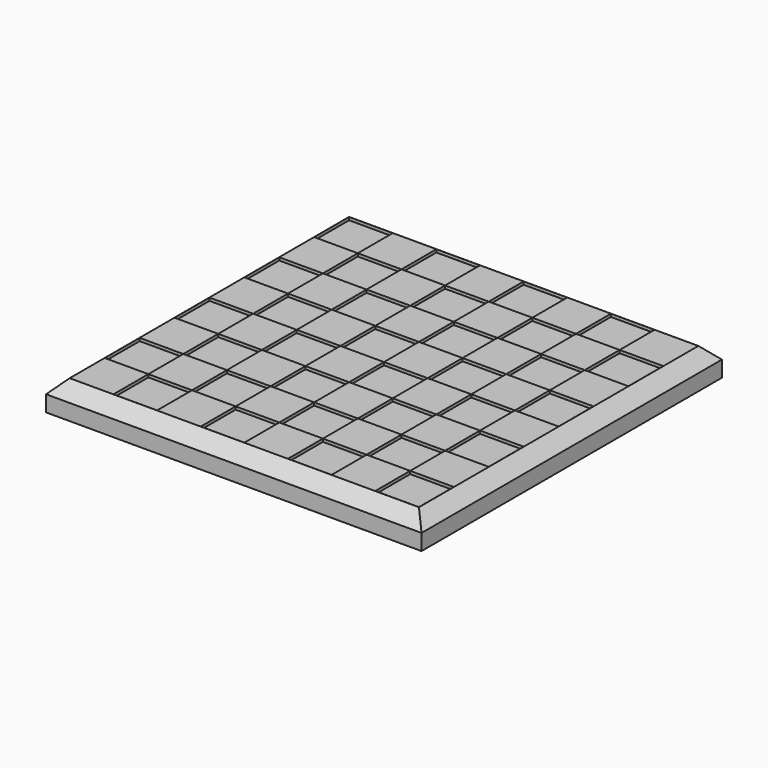
from build123d import *

# Parameters (mm, degrees)
F0_W          = 38.1
F0_H          = 38.1
F1_DEPTH      = 12.7
F2_DEPTH      = 15.24
F3_W          = 327.8466301799
F3_H          = 327.8466301799
F3_W_2        = 304.8
F3_H_2        = 304.8
F4_DEPTH      = 15.24
F4_DEPTH_BACK = 10.16
F5_SIZE       = 11.43
F3_W_3        = 38.1
F3_H_3        = 38.1
F6_DEPTH      = 1.27
F8_DEPTH      = 8.89


with BuildPart() as f1:
    # F0 (on Top) → F1 (new body)
    with BuildSketch(Plane.XY):
        with Locations((-184.1500037253, 82.8282978117)):
            Rectangle(F0_W, F0_H)
    extrude(amount=F1_DEPTH)


with BuildPart() as f1b:
    # F0 (on Top) → F1, piece 2 (new body)
    with BuildSketch(Plane.XY):
        with Locations((-146.0500037253, 44.7282978117)):
            Rectangle(F0_W, F0_H)
    extrude(amount=F1_DEPTH)


with BuildPart() as f1c:
    # F0 (on Top) → F1, piece 3 (new body)
    with BuildSketch(Plane.XY):
        with Locations((-107.9500037253, 82.8282978117)):
            Rectangle(F0_W, F0_H)
    extrude(amount=F1_DEPTH)


with BuildPart() as f1d:
    # F0 (on Top) → F1, piece 4 (new body)
    with BuildSketch(Plane.XY):
        with Locations((-69.8500037253, 44.7282978117)):
            Rectangle(F0_W, F0_H)
    extrude(amount=F1_DEPTH)


with BuildPart() as f1e:
    # F0 (on Top) → F1, piece 5 (new body)
    with BuildSketch(Plane.XY):
        with Locations((-31.7500037253, 82.8282978117)):
            Rectangle(F0_W, F0_H)
    extrude(amount=F1_DEPTH)


with BuildPart() as f1f:
    # F0 (on Top) → F1, piece 6 (new body)
    with BuildSketch(Plane.XY):
        with Locations((6.3499962747, 44.7282978117)):
            Rectangle(F0_W, F0_H)
    extrude(amount=F1_DEPTH)


with BuildPart() as f1g:
    # F0 (on Top) → F1, piece 7 (new body)
    with BuildSketch(Plane.XY):
        with Locations((44.4499962747, 82.8282978117)):
            Rectangle(F0_W, F0_H)
    extrude(amount=F1_DEPTH)


with BuildPart() as f1h:
    # F0 (on Top) → F1, piece 8 (new body)
    with BuildSketch(Plane.XY):
        with Locations((82.5499962747, 44.7282978117)):
            Rectangle(F0_W, F0_H)
    extrude(amount=F1_DEPTH)


with BuildPart() as f1i:
    # F0 (on Top) → F1, piece 9 (new body)
    with BuildSketch(Plane.XY):
        with Locations((-184.1500037253, 6.6282978117)):
            Rectangle(F0_W, F0_H)
    extrude(amount=F1_DEPTH)


with BuildPart() as f1j:
    # F0 (on Top) → F1, piece 10 (new body)
    with BuildSketch(Plane.XY):
        with Locations((-146.0500037253, -31.4717021883)):
            Rectangle(F0_W, F0_H)
    extrude(amount=F1_DEPTH)


with BuildPart() as f1k:
    # F0 (on Top) → F1, piece 11 (new body)
    with BuildSketch(Plane.XY):
        with Locations((-107.9500037253, 6.6282978117)):
            Rectangle(F0_W, F0_H)
    extrude(amount=F1_DEPTH)


with BuildPart() as f1l:
    # F0 (on Top) → F1, piece 12 (new body)
    with BuildSketch(Plane.XY):
        with Locations((-69.8500037253, -31.4717021883)):
            Rectangle(F0_W, F0_H)
    extrude(amount=F1_DEPTH)


with BuildPart() as f1m:
    # F0 (on Top) → F1, piece 13 (new body)
    with BuildSketch(Plane.XY):
        with Locations((-31.7500037253, 6.6282978117)):
            Rectangle(F0_W, F0_H)
    extrude(amount=F1_DEPTH)


with BuildPart() as f1n:
    # F0 (on Top) → F1, piece 14 (new body)
    with BuildSketch(Plane.XY):
        with Locations((6.3499962747, -31.4717021883)):
            Rectangle(F0_W, F0_H)
    extrude(amount=F1_DEPTH)


with BuildPart() as f1o:
    # F0 (on Top) → F1, piece 15 (new body)
    with BuildSketch(Plane.XY):
        with Locations((44.4499962747, 6.6282978117)):
            Rectangle(F0_W, F0_H)
    extrude(amount=F1_DEPTH)


with BuildPart() as f1p:
    # F0 (on Top) → F1, piece 16 (new body)
    with BuildSketch(Plane.XY):
        with Locations((82.5499962747, -31.4717021883)):
            Rectangle(F0_W, F0_H)
    extrude(amount=F1_DEPTH)


with BuildPart() as f1q:
    # F0 (on Top) → F1, piece 17 (new body)
    with BuildSketch(Plane.XY):
        with Locations((44.4499962747, -69.5717021883)):
            Rectangle(F0_W, F0_H)
    extrude(amount=F1_DEPTH)


with BuildPart() as f1r:
    # F0 (on Top) → F1, piece 18 (new body)
    with BuildSketch(Plane.XY):
        with Locations((-31.7500037253, -69.5717021883)):
            Rectangle(F0_W, F0_H)
    extrude(amount=F1_DEPTH)


with BuildPart() as f1s:
    # F0 (on Top) → F1, piece 19 (new body)
    with BuildSketch(Plane.XY):
        with Locations((-107.9500037253, -69.5717021883)):
            Rectangle(F0_W, F0_H)
    extrude(amount=F1_DEPTH)


with BuildPart() as f1t:
    # F0 (on Top) → F1, piece 20 (new body)
    with BuildSketch(Plane.XY):
        with Locations((-184.1500037253, -69.5717021883)):
            Rectangle(F0_W, F0_H)
    extrude(amount=F1_DEPTH)


with BuildPart() as f1u:
    # F0 (on Top) → F1, piece 21 (new body)
    with BuildSketch(Plane.XY):
        with Locations((-146.0500037253, -107.6717021883)):
            Rectangle(F0_W, F0_H)
    extrude(amount=F1_DEPTH)


with BuildPart() as f1v:
    # F0 (on Top) → F1, piece 22 (new body)
    with BuildSketch(Plane.XY):
        with Locations((-69.8500037253, -107.6717021883)):
            Rectangle(F0_W, F0_H)
    extrude(amount=F1_DEPTH)


with BuildPart() as f1w:
    # F0 (on Top) → F1, piece 23 (new body)
    with BuildSketch(Plane.XY):
        with Locations((6.3499962747, -107.6717021883)):
            Rectangle(F0_W, F0_H)
    extrude(amount=F1_DEPTH)


with BuildPart() as f1x:
    # F0 (on Top) → F1, piece 24 (new body)
    with BuildSketch(Plane.XY):
        with Locations((82.5499962747, -107.6717021883)):
            Rectangle(F0_W, F0_H)
    extrude(amount=F1_DEPTH)


with BuildPart() as f1y:
    # F0 (on Top) → F1, piece 25 (new body)
    with BuildSketch(Plane.XY):
        with Locations((44.4499962747, -145.7717021883)):
            Rectangle(F0_W, F0_H)
    extrude(amount=F1_DEPTH)


with BuildPart() as f1z:
    # F0 (on Top) → F1, piece 26 (new body)
    with BuildSketch(Plane.XY):
        with Locations((-31.7500037253, -145.7717021883)):
            Rectangle(F0_W, F0_H)
    extrude(amount=F1_DEPTH)


with BuildPart() as f1ba:
    # F0 (on Top) → F1, piece 27 (new body)
    with BuildSketch(Plane.XY):
        with Locations((-107.9500037253, -145.7717021883)):
            Rectangle(F0_W, F0_H)
    extrude(amount=F1_DEPTH)


with BuildPart() as f1bb:
    # F0 (on Top) → F1, piece 28 (new body)
    with BuildSketch(Plane.XY):
        with Locations((-184.1500037253, -145.7717021883)):
            Rectangle(F0_W, F0_H)
    extrude(amount=F1_DEPTH)


with BuildPart() as f1bc:
    # F0 (on Top) → F1, piece 29 (new body)
    with BuildSketch(Plane.XY):
        with Locations((-146.0500037253, -183.8717021883)):
            Rectangle(F0_W, F0_H)
    extrude(amount=F1_DEPTH)


with BuildPart() as f1bd:
    # F0 (on Top) → F1, piece 30 (new body)
    with BuildSketch(Plane.XY):
        with Locations((-69.8500037253, -183.8717021883)):
            Rectangle(F0_W, F0_H)
    extrude(amount=F1_DEPTH)


with BuildPart() as f1be:
    # F0 (on Top) → F1, piece 31 (new body)
    with BuildSketch(Plane.XY):
        with Locations((6.3499962747, -183.8717021883)):
            Rectangle(F0_W, F0_H)
    extrude(amount=F1_DEPTH)


with BuildPart() as f1bf:
    # F0 (on Top) → F1, piece 32 (new body)
    with BuildSketch(Plane.XY):
        with Locations((82.5499962747, -183.8717021883)):
            Rectangle(F0_W, F0_H)
    extrude(amount=F1_DEPTH)


with BuildPart() as f2:
    # F0 (on Top) → F2 (new body)
    with BuildSketch(Plane.XY):
        with Locations((-146.0500037253, 82.8282978117)):
            Rectangle(F0_W, F0_H)
    extrude(amount=F2_DEPTH)


with BuildPart() as f2b:
    # F0 (on Top) → F2, piece 2 (new body)
    with BuildSketch(Plane.XY):
        with Locations((-184.1500037253, 44.7282978117)):
            Rectangle(F0_W, F0_H)
    extrude(amount=F2_DEPTH)


with BuildPart() as f2c:
    # F0 (on Top) → F2, piece 3 (new body)
    with BuildSketch(Plane.XY):
        with Locations((-146.0500037253, 6.6282978117)):
            Rectangle(F0_W, F0_H)
    extrude(amount=F2_DEPTH)


with BuildPart() as f2d:
    # F0 (on Top) → F2, piece 4 (new body)
    with BuildSketch(Plane.XY):
        with Locations((-107.9500037253, 44.7282978117)):
            Rectangle(F0_W, F0_H)
    extrude(amount=F2_DEPTH)


with BuildPart() as f2e:
    # F0 (on Top) → F2, piece 5 (new body)
    with BuildSketch(Plane.XY):
        with Locations((-69.8500037253, 82.8282978117)):
            Rectangle(F0_W, F0_H)
    extrude(amount=F2_DEPTH)


with BuildPart() as f2f:
    # F0 (on Top) → F2, piece 6 (new body)
    with BuildSketch(Plane.XY):
        with Locations((-69.8500037253, 6.6282978117)):
            Rectangle(F0_W, F0_H)
    extrude(amount=F2_DEPTH)


with BuildPart() as f2g:
    # F0 (on Top) → F2, piece 7 (new body)
    with BuildSketch(Plane.XY):
        with Locations((-31.7500037253, 44.7282978117)):
            Rectangle(F0_W, F0_H)
    extrude(amount=F2_DEPTH)


with BuildPart() as f2h:
    # F0 (on Top) → F2, piece 8 (new body)
    with BuildSketch(Plane.XY):
        with Locations((6.3499962747, 82.8282978117)):
            Rectangle(F0_W, F0_H)
    extrude(amount=F2_DEPTH)


with BuildPart() as f2i:
    # F0 (on Top) → F2, piece 9 (new body)
    with BuildSketch(Plane.XY):
        with Locations((44.4499962747, 44.7282978117)):
            Rectangle(F0_W, F0_H)
    extrude(amount=F2_DEPTH)


with BuildPart() as f2j:
    # F0 (on Top) → F2, piece 10 (new body)
    with BuildSketch(Plane.XY):
        with Locations((6.3499962747, 6.6282978117)):
            Rectangle(F0_W, F0_H)
    extrude(amount=F2_DEPTH)


with BuildPart() as f2k:
    # F0 (on Top) → F2, piece 11 (new body)
    with BuildSketch(Plane.XY):
        with Locations((82.5499962747, 82.8282978117)):
            Rectangle(F0_W, F0_H)
    extrude(amount=F2_DEPTH)


with BuildPart() as f2l:
    # F0 (on Top) → F2, piece 12 (new body)
    with BuildSketch(Plane.XY):
        with Locations((82.5499962747, 6.6282978117)):
            Rectangle(F0_W, F0_H)
    extrude(amount=F2_DEPTH)


with BuildPart() as f2m:
    # F0 (on Top) → F2, piece 13 (new body)
    with BuildSketch(Plane.XY):
        with Locations((82.5499962747, -69.5717021883)):
            Rectangle(F0_W, F0_H)
    extrude(amount=F2_DEPTH)


with BuildPart() as f2n:
    # F0 (on Top) → F2, piece 14 (new body)
    with BuildSketch(Plane.XY):
        with Locations((44.4499962747, -31.4717021883)):
            Rectangle(F0_W, F0_H)
    extrude(amount=F2_DEPTH)


with BuildPart() as f2o:
    # F0 (on Top) → F2, piece 15 (new body)
    with BuildSketch(Plane.XY):
        with Locations((6.3499962747, -69.5717021883)):
            Rectangle(F0_W, F0_H)
    extrude(amount=F2_DEPTH)


with BuildPart() as f2p:
    # F0 (on Top) → F2, piece 16 (new body)
    with BuildSketch(Plane.XY):
        with Locations((-31.7500037253, -31.4717021883)):
            Rectangle(F0_W, F0_H)
    extrude(amount=F2_DEPTH)


with BuildPart() as f2q:
    # F0 (on Top) → F2, piece 17 (new body)
    with BuildSketch(Plane.XY):
        with Locations((-69.8500037253, -69.5717021883)):
            Rectangle(F0_W, F0_H)
    extrude(amount=F2_DEPTH)


with BuildPart() as f2r:
    # F0 (on Top) → F2, piece 18 (new body)
    with BuildSketch(Plane.XY):
        with Locations((-107.9500037253, -31.4717021883)):
            Rectangle(F0_W, F0_H)
    extrude(amount=F2_DEPTH)


with BuildPart() as f2s:
    # F0 (on Top) → F2, piece 19 (new body)
    with BuildSketch(Plane.XY):
        with Locations((-146.0500037253, -69.5717021883)):
            Rectangle(F0_W, F0_H)
    extrude(amount=F2_DEPTH)


with BuildPart() as f2t:
    # F0 (on Top) → F2, piece 20 (new body)
    with BuildSketch(Plane.XY):
        with Locations((-184.1500037253, -31.4717021883)):
            Rectangle(F0_W, F0_H)
    extrude(amount=F2_DEPTH)


with BuildPart() as f2u:
    # F0 (on Top) → F2, piece 21 (new body)
    with BuildSketch(Plane.XY):
        with Locations((-184.1500037253, -107.6717021883)):
            Rectangle(F0_W, F0_H)
    extrude(amount=F2_DEPTH)


with BuildPart() as f2v:
    # F0 (on Top) → F2, piece 22 (new body)
    with BuildSketch(Plane.XY):
        with Locations((-146.0500037253, -145.7717021883)):
            Rectangle(F0_W, F0_H)
    extrude(amount=F2_DEPTH)


with BuildPart() as f2w:
    # F0 (on Top) → F2, piece 23 (new body)
    with BuildSketch(Plane.XY):
        with Locations((-184.1500037253, -183.8717021883)):
            Rectangle(F0_W, F0_H)
    extrude(amount=F2_DEPTH)


with BuildPart() as f2x:
    # F0 (on Top) → F2, piece 24 (new body)
    with BuildSketch(Plane.XY):
        with Locations((-107.9500037253, -107.6717021883)):
            Rectangle(F0_W, F0_H)
    extrude(amount=F2_DEPTH)


with BuildPart() as f2y:
    # F0 (on Top) → F2, piece 25 (new body)
    with BuildSketch(Plane.XY):
        with Locations((-69.8500037253, -145.7717021883)):
            Rectangle(F0_W, F0_H)
    extrude(amount=F2_DEPTH)


with BuildPart() as f2z:
    # F0 (on Top) → F2, piece 26 (new body)
    with BuildSketch(Plane.XY):
        with Locations((-107.9500037253, -183.8717021883)):
            Rectangle(F0_W, F0_H)
    extrude(amount=F2_DEPTH)


with BuildPart() as f2ba:
    # F0 (on Top) → F2, piece 27 (new body)
    with BuildSketch(Plane.XY):
        with Locations((-31.7500037253, -183.8717021883)):
            Rectangle(F0_W, F0_H)
    extrude(amount=F2_DEPTH)


with BuildPart() as f2bb:
    # F0 (on Top) → F2, piece 28 (new body)
    with BuildSketch(Plane.XY):
        with Locations((6.3499962747, -145.7717021883)):
            Rectangle(F0_W, F0_H)
    extrude(amount=F2_DEPTH)


with BuildPart() as f2bc:
    # F0 (on Top) → F2, piece 29 (new body)
    with BuildSketch(Plane.XY):
        with Locations((-31.7500037253, -107.6717021883)):
            Rectangle(F0_W, F0_H)
    extrude(amount=F2_DEPTH)


with BuildPart() as f2bd:
    # F0 (on Top) → F2, piece 30 (new body)
    with BuildSketch(Plane.XY):
        with Locations((44.4499962747, -107.6717021883)):
            Rectangle(F0_W, F0_H)
    extrude(amount=F2_DEPTH)


with BuildPart() as f2be:
    # F0 (on Top) → F2, piece 31 (new body)
    with BuildSketch(Plane.XY):
        with Locations((82.5499962747, -145.7717021883)):
            Rectangle(F0_W, F0_H)
    extrude(amount=F2_DEPTH)


with BuildPart() as f2bf:
    # F0 (on Top) → F2, piece 32 (new body)
    with BuildSketch(Plane.XY):
        with Locations((44.4499962747, -183.8717021883)):
            Rectangle(F0_W, F0_H)
    extrude(amount=F2_DEPTH)


with BuildPart() as f4:
    # F3 (on face) → F4 (new body, two sides)
    with BuildSketch(Plane(origin=(0, 0, 0), x_dir=(1, 0, 0), z_dir=(0, 0, -1))) as f4_sk:
        with Locations((-50.8000037253, 50.5217021883)):
            Rectangle(F3_W, F3_H)
        with Locations((-50.8000037253, 50.5217021883)):
            Rectangle(F3_W_2, F3_H_2, mode=Mode.SUBTRACT)
    extrude(amount=-F4_DEPTH)
    extrude(f4_sk.sketch, amount=F4_DEPTH_BACK)

    # F5
    f5_edges = [f4.edges().sort_by_distance(p)[0] for p in [
        (-214.723319, -50.521702, 15.24),
        (-50.800004, 113.401613, 15.24),
        (113.123311, -50.521702, 15.24),
        (-50.800004, -214.445017, 15.24),
    ]]
    chamfer(f5_edges, length=F5_SIZE)



with BuildPart() as f6:
    # F3 (on face) → F6 (new body)
    with BuildSketch(Plane(origin=(0, 0, 0), x_dir=(1, 0, 0), z_dir=(0, 0, -1))):
        with Locations((-50.8000037253, 50.5217021883)):
            Rectangle(F3_W_2, F3_H_2)
        with Locations((-31.7500037253, -6.6282978117)):
            Rectangle(F3_W_3, F3_H_3, mode=Mode.SUBTRACT)
        with Locations((-31.7500037253, -6.6282978117)):
            Rectangle(F3_W_3, F3_H_3)
    extrude(amount=F6_DEPTH)


with BuildPart() as f4_1:
    add(f4.part)

    add(f6.part)  # F8 merges F6
    # F7 (on face) → F8 (join)
    with BuildSketch(Plane(origin=(0, 0, -1.27), x_dir=(1, 0, 0), z_dir=(0, 0, -1))):
        Polygon((101.5999962747, -101.8782978117), (101.5999962747, -31.2673524022), (-186.6587996483, -101.8782978117), align=None)
        Polygon((-203.2000037253, -101.8782978117), (-186.6587996483, -101.8782978117), (70.0014010072, 130.2574723959), (-159.3266739848, 53.2724284594), (-133.2734823227, -23.7386524677), (-145.5931812525, -44.9558980763), (-174.1358728213, 48.301005649), (-203.2000037253, 38.5442264378), align=None)
        Polygon((-134.3709388731, -73.3282050266), (101.5999962747, -15.5255254358), (101.5999962747, 140.0952031889), align=None)
        Polygon((-203.2000037253, 143.2615965605), (-203.2000037253, 50.5217021883), (-177.7468300998, 60.0990063551), align=None)
        Polygon((84.6530066906, 158.832590121), (101.5999962747, 140.0952031889), (101.5999962747, 202.9217021883), (-203.2000037253, 202.9217021883), (-203.2000037253, 182.9583644867), (-163.4553589224, 65.476479847), align=None)
    extrude(amount=F8_DEPTH)


solid = Compound([f1.part, f1b.part, f1c.part, f1d.part, f1e.part, f1f.part, f1g.part, f1h.part, f1i.part, f1j.part, f1k.part, f1l.part, f1m.part, f1n.part, f1o.part, f1p.part, f1q.part, f1r.part, f1s.part, f1t.part, f1u.part, f1v.part, f1w.part, f1x.part, f1y.part, f1z.part, f1ba.part, f1bb.part, f1bc.part, f1bd.part, f1be.part, f1bf.part, f2.part, f2b.part, f2c.part, f2d.part, f2e.part, f2f.part, f2g.part, f2h.part, f2i.part, f2j.part, f2k.part, f2l.part, f2m.part, f2n.part, f2o.part, f2p.part, f2q.part, f2r.part, f2s.part, f2t.part, f2u.part, f2v.part, f2w.part, f2x.part, f2y.part, f2z.part, f2ba.part, f2bb.part, f2bc.part, f2bd.part, f2be.part, f2bf.part, f4_1.part])
